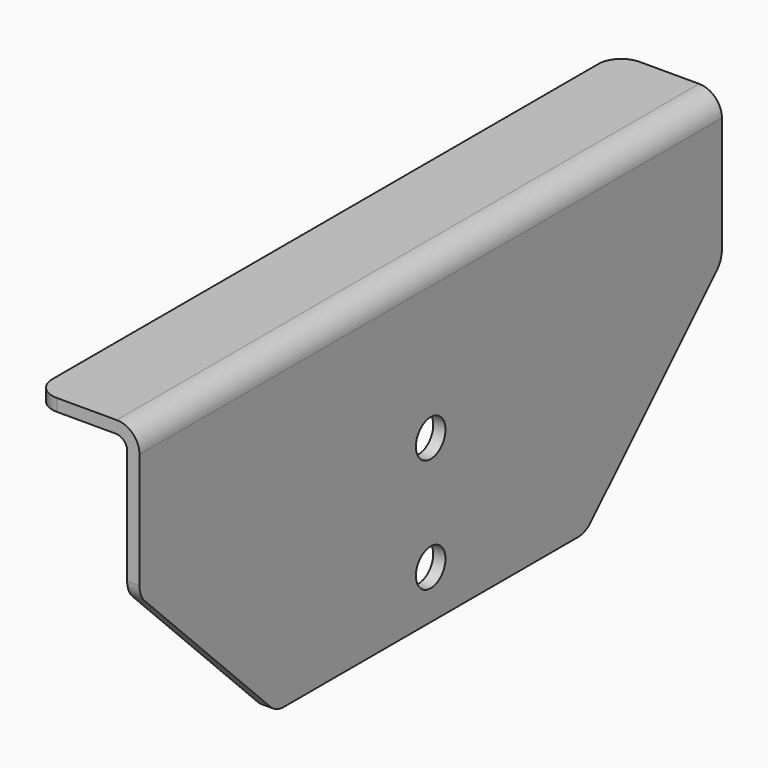
from build123d import *

# Parameters (mm, degrees)
F1_DEPTH      = 101.6
F3_DEPTH      = 25.4
F3_DEPTH_BACK = 25.4
F4_R          = 6.35
F5_R          = 5.159375
F6_DEPTH      = 25.4
F6_DEPTH_BACK = 25.4


with BuildPart() as f1:
    # F0 (on Front) → F1 (new body, symmetric)
    with BuildSketch(Plane.XZ):
        with BuildLine():
            Line((-2.921, 88.9), (-25.93848, 88.9))
            Line((-25.93848, 88.9), (-25.93848, 85.471))
            Line((-25.93848, 85.471), (-3.175, 85.471))
            ThreePointArc((-3.175, 85.471), (-0.9299359697, 84.5410640303), (0, 82.296))
            Line((0, 82.296), (0, 0))
            Line((0, 0), (3.429, 0))
            Line((3.429, 0), (3.429, 82.55))
            ThreePointArc((3.429, 82.55), (1.5691280605, 87.0401280605), (-2.921, 88.9))
        make_face()
    extrude(amount=F1_DEPTH, both=True)

    # F2 (on face) → F3 (cut, two sides)
    with BuildSketch(Plane.YZ.offset(3.429)) as f3_sk:
        Polygon((-53.975, 0), (-101.6, 47.625), (-101.6, 0), align=None)
        Polygon((101.6, 0), (101.6, 47.625), (53.975, 0), align=None)
    extrude(amount=-F3_DEPTH, mode=Mode.SUBTRACT)
    extrude(f3_sk.sketch, amount=F3_DEPTH_BACK, mode=Mode.SUBTRACT)

    # F4
    f4_edges = [f1.edges().sort_by_distance(p)[0] for p in [
        (1.7145, -101.6, 47.625),
        (-25.93848, -101.6, 87.1855),
        (1.7145, -53.975, 0),
        (1.7145, 53.975, 0),
        (1.7145, 101.6, 47.625),
        (-25.93848, 101.6, 87.1855),
    ]]
    fillet(f4_edges, radius=F4_R)

    # F5 (on face) → F6 (cut, two sides)
    with BuildSketch(Plane.YZ.offset(3.429)) as f6_sk:
        with Locations((0, 45.24375)):
            Circle(F5_R)
        with Locations((0, 13.49375)):
            Circle(F5_R)
    extrude(amount=-F6_DEPTH, mode=Mode.SUBTRACT)
    extrude(f6_sk.sketch, amount=F6_DEPTH_BACK, mode=Mode.SUBTRACT)


solid = f1.part
